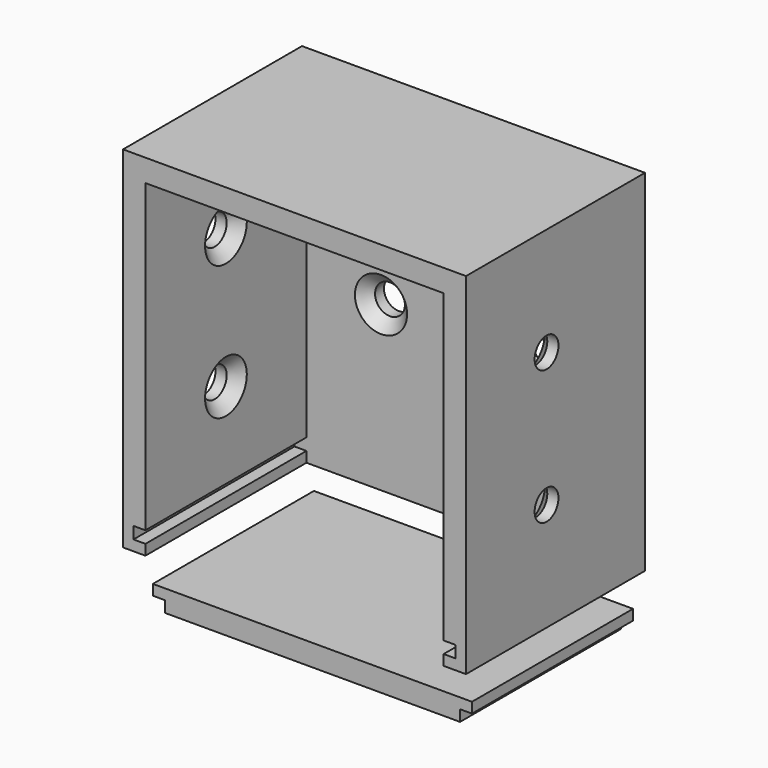
from build123d import *

# Parameters (mm, degrees)
F1_DEPTH = 30
F2_W     = 46
F2_H     = 3
F3_DEPTH = 47
F4_R     = 2
F5_DEPTH = 3.001
F7_DEPTH = 27
F8_R     = 2
F9_DEPTH = 50
F10_SIZE = 1.5


with BuildPart() as f1:
    # F0 (on Front) → F1 (new body)
    with BuildSketch(Plane.XZ):
        Polygon((-20, 44), (0, 44), (20, 44), (20, 3), (21.6, 3), (21.6, 1.4), (20, 1.4), (20, 0), (23, 0), (23, 47), (0, 47), (-23, 47), (-23, 0), (-20, 0), (-20, 1.4), (-21.6, 1.4), (-21.6, 3), (-20, 3), align=None)
    extrude(amount=F1_DEPTH)

    # F2 (on Top) → F3 (join)
    with BuildSketch(Plane.XY):
        with Locations((0, -1.5)):
            Rectangle(F2_W, F2_H)
    extrude(amount=F3_DEPTH)

    # F4 (on face) → F5 (cut, through all)
    with BuildSketch(Plane.XZ.offset(3)):
        with Locations((-10, 21.9403412193)):
            Circle(F4_R)
        with Locations((10, 21.9403412193)):
            Circle(F4_R)
    extrude(amount=-F5_DEPTH, mode=Mode.SUBTRACT)

    # F8 (on face) → F9 (cut)
    with BuildSketch(Plane.YZ.offset(23)):
        with Locations((-16.5, 32.5)):
            Circle(F8_R)
        with Locations((-16.5, 14.5)):
            Circle(F8_R)
    extrude(amount=-F9_DEPTH, mode=Mode.SUBTRACT)

    # F10
    f10_edges = [f1.edges().sort_by_distance(p)[0] for p in [
        (20, -18.5, 32.5),
        (20, -18.5, 14.5),
        (-20, -18.5, 32.5),
        (-20, -18.5, 14.5),
        (-12, -3, 21.940341),
        (8, -3, 21.940341),
    ]]
    chamfer(f10_edges, length=F10_SIZE)


with BuildPart() as f7:
    # F6 (on Front) → F7 (new body)
    with BuildSketch(Plane.XZ):
        Polygon((21.4, -5), (0, -5), (-21.4, -5), (-21.4, -6.4), (-19.8, -6.4), (-19.8, -7.9), (0, -7.9), (19.8, -7.9), (19.8, -6.4), (21.4, -6.4), align=None)
    extrude(amount=F7_DEPTH)


solid = Compound([f1.part, f7.part])
